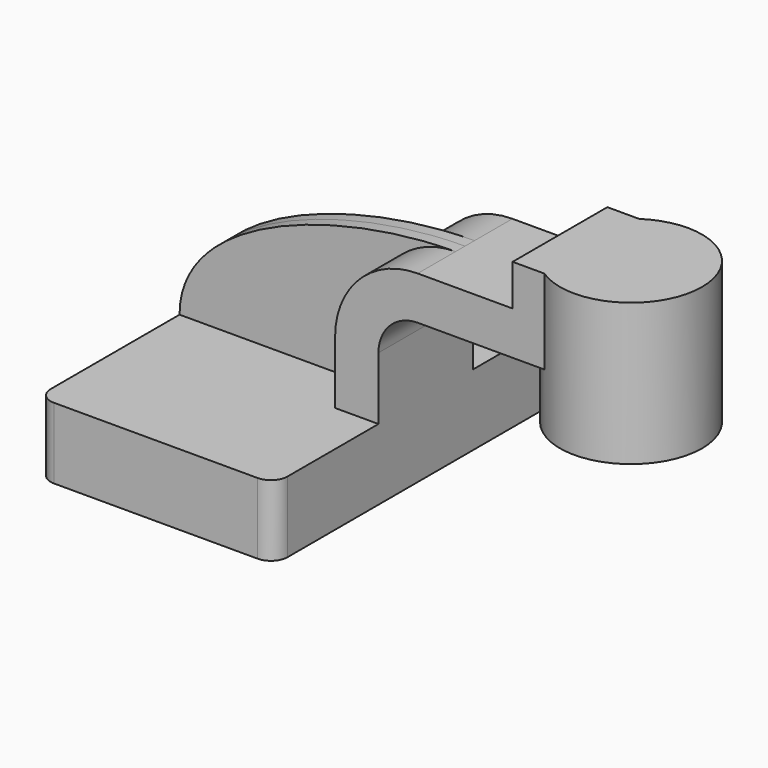
from build123d import *

# Parameters (mm, degrees)
F1_DEPTH = 80
F2_DEPTH = 25
F3_DEPTH = 5
F4_DEPTH = 25
F6_R     = 7


with BuildPart() as f1:
    # F0 (on Front) → F1 (new body, symmetric)
    with BuildSketch(Plane.XZ):
        Polygon((31.686229, 15), (-50, 15), (-50, -15), (50, -15), (50, 15), align=None)
    extrude(amount=F1_DEPTH, both=True)

    # F0 (on Front) → F2 (join, symmetric)
    with BuildSketch(Plane.XZ):
        with BuildLine():
            Line((31.686229, 41.474519), (31.686229, 15))
            Line((31.686229, 15), (50, 15))
            Line((50, 15), (50, 41.474519))
            ThreePointArc((50, 41.474519), (54.850968, 53.185792), (66.562242, 58.03676))
            Line((66.562242, 58.03676), (106.641613, 58.03676))
            Line((106.641613, 58.03676), (106.641613, 76.350532))
            Line((106.641613, 76.350532), (66.562242, 76.350532))
            ThreePointArc((66.562242, 76.350532), (41.901176, 66.135584), (31.686229, 41.474519))
        make_face()
    extrude(amount=F2_DEPTH, both=True)

    # F0 (on Front) → F3 (join, symmetric)
    with BuildSketch(Plane.XZ):
        with BuildLine():
            add(Edge.make_bspline(
                [(-50, 15), (-50, 55.069078), (18.715411, 76.350532), (66.562242, 76.350532)],
                knots=[0, 0, 0, 0, 131.721843, 131.721843, 131.721843, 131.721843], degree=3))
            Line((-50, 15), (31.686229, 15))
            Line((31.686229, 15), (31.686229, 41.474519))
            ThreePointArc((31.686229, 41.474519), (41.901176, 66.135584), (66.562242, 76.350532))
        make_face()
    extrude(amount=F3_DEPTH, both=True)

    # F0 (on Front) → F4 (join, symmetric)
    with BuildSketch(Plane.XZ):
        Polygon((106.641613, 93.709281), (106.641613, 76.350532), (106.641613, 58.03676), (136.641613, 58.03676), (136.641613, 63.709281), (136.641613, 93.709281), align=None)
    extrude(amount=F4_DEPTH, both=True)

    # F0 (on Front) → F5 (revolve)
    with BuildSketch(Plane.XZ):
        Polygon((166.641613, 93.709281), (136.641613, 93.709281), (136.641613, 63.709281), (136.641613, 58.03676), (136.641613, 33.709281), (166.641613, 33.709281), align=None)
    revolve(axis=Axis((136.641613, 0, 78.709281), (0, 0, 1)))

    # F6
    f6_edges = [f1.edges().sort_by_distance(p)[0] for p in [
        (50, -80, 0),
        (-50, -80, 0),
        (50, 80, 0),
        (-50, 80, 0),
    ]]
    fillet(f6_edges, radius=F6_R)


solid = f1.part
